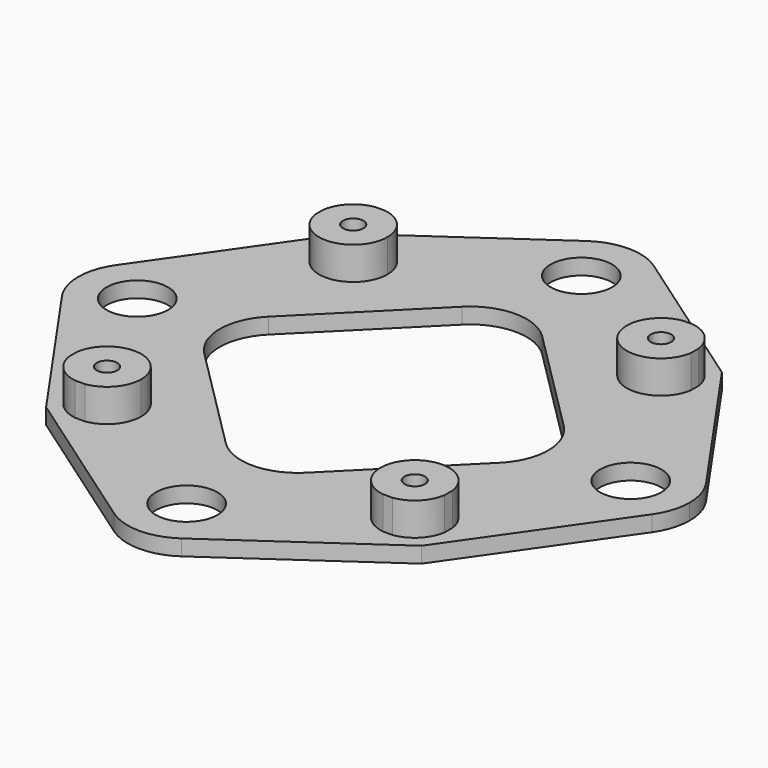
from build123d import *

# Parameters (mm, degrees)
F0_R     = 3
F0_R_2   = 1
F1_DEPTH = 1.54
F2_DEPTH = 3.2


with BuildPart() as f1:
    # F0 (on Top) → F1 (new body)
    with BuildSketch(Plane.XY):
        with BuildLine():
            Line((-2.26e-08, 18.3), (-14.5244322999, 18.3))
            ThreePointArc((-14.5244322999, 18.3), (-12.4799056806, 17.1829542503), (-11.6659087239, 15))
            ThreePointArc((-11.6659087239, 15), (-14.7616059709, 11.6744424642), (-18.3, 14.5244322999))
            Line((-18.3, 14.5244322999), (-18.3, 0))
            Line((-18.3, 0), (-18.3, -14.5244322999))
            ThreePointArc((-18.3, -14.5244322999), (-14.7616059709, -11.6744424642), (-11.6659087239, -15))
            ThreePointArc((-11.6659087239, -15), (-12.4799056806, -17.1829542503), (-14.5244322999, -18.3))
            Line((-14.5244322999, -18.3), (0, -18.3))
            Line((0, -18.3), (14.5244322999, -18.3))
            ThreePointArc((14.5244322999, -18.3), (12.6424414496, -12.6424414496), (18.3, -14.5244322999))
            Line((18.3, -14.5244322999), (18.3, -7.7e-09))
            Line((18.3, -7.7e-09), (18.3, 14.5244322999))
            ThreePointArc((18.3, 14.5244322999), (12.6424414496, 12.6424414496), (14.5244322999, 18.3))
            Line((14.5244322999, 18.3), (-2.26e-08, 18.3))
        make_face()
        with BuildLine():
            ThreePointArc((-14.4005392066, -3.8994607934), (-16.0157487532, 0), (-14.4005392066, 3.8994607934))
            Line((-14.4005392066, 3.8994607934), (-3.8994607934, 14.4005392066))
            ThreePointArc((-3.8994607934, 14.4005392066), (0, 16.0157487532), (3.8994607934, 14.4005392066))
            Line((3.8994607934, 14.4005392066), (14.4005392066, 3.8994607934))
            ThreePointArc((14.4005392066, 3.8994607934), (16.0157487532, 0), (14.4005392066, -3.8994607934))
            Line((14.4005392066, -3.8994607934), (3.8994607934, -14.4005392066))
            ThreePointArc((3.8994607934, -14.4005392066), (0, -16.0157487532), (-3.8994607934, -14.4005392066))
            Line((-3.8994607934, -14.4005392066), (-14.4005392066, -3.8994607934))
        make_face(mode=Mode.SUBTRACT)
        with BuildLine():
            Line((-3.2887057433, 28.766663496), (-18.3, 18.3))
            Line((-18.3, 18.3), (-15.4755677001, 18.3))
            ThreePointArc((-15.4755677001, 18.3), (-15, 18.3340912761), (-14.5244322999, 18.3))
            Line((-14.5244322999, 18.3), (-2.26e-08, 18.3))
            ThreePointArc((-2.26e-08, 18.3), (-5.4855863486, 22.3263868149), (-3.2887057433, 28.766663496))
        make_face()
        with BuildLine():
            Line((18.3, 18.3), (3.2887057433, 28.766663496))
            ThreePointArc((3.2887057433, 28.766663496), (5.0976738825, 26.7101167245), (5.75, 24.05))
            ThreePointArc((5.75, 24.05), (4.0658639838, 19.9841360002), (-2.26e-08, 18.3))
            Line((-2.26e-08, 18.3), (14.5244322999, 18.3))
            ThreePointArc((14.5244322999, 18.3), (15, 18.3340912761), (15.4755677001, 18.3))
            Line((15.4755677001, 18.3), (18.3, 18.3))
        make_face()
        with BuildLine():
            ThreePointArc((3.2887057433, 28.766663496), (0, 29.8), (-3.2887057433, 28.766663496))
            ThreePointArc((-3.2887057433, 28.766663496), (-5.4855863486, 22.3263868149), (-2.26e-08, 18.3))
            ThreePointArc((-2.26e-08, 18.3), (4.0658639838, 19.9841360002), (5.75, 24.05))
            ThreePointArc((5.75, 24.05), (5.0976738825, 26.7101167245), (3.2887057433, 28.766663496))
        make_face()
        with Locations((0, 24.05)):
            Circle(F0_R, mode=Mode.SUBTRACT)
        with BuildLine():
            Line((28.766663496, 3.2887057433), (18.3, 18.3))
            Line((18.3, 18.3), (18.3, 15.4755677001))
            ThreePointArc((18.3, 15.4755677001), (18.3255575358, 15.2383940291), (18.3340912761, 15))
            ThreePointArc((18.3340912761, 15), (18.3255575358, 14.7616059709), (18.3, 14.5244322999))
            Line((18.3, 14.5244322999), (18.3, -7.7e-09))
            ThreePointArc((18.3, -7.7e-09), (22.3263868004, 5.4855863441), (28.766663496, 3.2887057433))
        make_face()
        with BuildLine():
            ThreePointArc((28.766663496, -3.2887057433), (22.3263868078, -5.4855863464), (18.3, -7.7e-09))
            Line((18.3, -7.7e-09), (18.3, -14.5244322999))
            ThreePointArc((18.3, -14.5244322999), (18.3255575358, -14.7616059709), (18.3340912761, -15))
            ThreePointArc((18.3340912761, -15), (18.3255575358, -15.2383940291), (18.3, -15.4755677001))
            Line((18.3, -15.4755677001), (18.3, -18.3))
            Line((18.3, -18.3), (28.766663496, -3.2887057433))
        make_face()
        with BuildLine():
            ThreePointArc((29.8, 0), (29.5355863452, 1.7236131959), (28.766663496, 3.2887057433))
            ThreePointArc((28.766663496, 3.2887057433), (22.3263868004, 5.4855863441), (18.3, -7.7e-09))
            ThreePointArc((18.3, -7.7e-09), (22.3263868078, -5.4855863464), (28.766663496, -3.2887057433))
            ThreePointArc((28.766663496, -3.2887057433), (29.5355863452, -1.7236131959), (29.8, 0))
        make_face()
        with Locations((24.05, 0)):
            Circle(F0_R, mode=Mode.SUBTRACT)
        with BuildLine():
            ThreePointArc((18.3, -14.5244322999), (12.6424414496, -12.6424414496), (14.5244322999, -18.3))
            Line((14.5244322999, -18.3), (15.4755677001, -18.3))
            ThreePointArc((15.4755677001, -18.3), (17.3575585504, -17.3575585504), (18.3, -15.4755677001))
            Line((18.3, -15.4755677001), (18.3, -14.5244322999))
        make_face()
        with Locations((15, -15)):
            Circle(F0_R_2, mode=Mode.SUBTRACT)
        with BuildLine():
            Line((15.4755677001, 18.3), (14.5244322999, 18.3))
            ThreePointArc((14.5244322999, 18.3), (12.6424414496, 12.6424414496), (18.3, 14.5244322999))
            Line((18.3, 14.5244322999), (18.3, 15.4755677001))
            ThreePointArc((18.3, 15.4755677001), (17.3575585504, 17.3575585504), (15.4755677001, 18.3))
        make_face()
        with Locations((15, 15)):
            Circle(F0_R_2, mode=Mode.SUBTRACT)
        with Locations((15, 15)):
            Circle(F0_R_2)
        with BuildLine():
            Line((18.3, 15.4755677001), (18.3, 18.3))
            Line((18.3, 18.3), (15.4755677001, 18.3))
            ThreePointArc((15.4755677001, 18.3), (17.3575585504, 17.3575585504), (18.3, 15.4755677001))
        make_face()
        with BuildLine():
            Line((-15.4755677001, 18.3), (-18.3, 18.3))
            Line((-18.3, 18.3), (-18.3, 15.4755677001))
            ThreePointArc((-18.3, 15.4755677001), (-17.3575585504, 17.3575585504), (-15.4755677001, 18.3))
        make_face()
        with BuildLine():
            Line((-14.5244322999, 18.3), (-15.4755677001, 18.3))
            ThreePointArc((-15.4755677001, 18.3), (-17.3575585504, 17.3575585504), (-18.3, 15.4755677001))
            Line((-18.3, 15.4755677001), (-18.3, 14.5244322999))
            ThreePointArc((-18.3, 14.5244322999), (-14.7616059709, 11.6744424642), (-11.6659087239, 15))
            ThreePointArc((-11.6659087239, 15), (-12.4799056806, 17.1829542503), (-14.5244322999, 18.3))
        make_face()
        with Locations((-15, 15)):
            Circle(F0_R_2, mode=Mode.SUBTRACT)
        with Locations((-15, 15)):
            Circle(F0_R_2)
        with BuildLine():
            ThreePointArc((-18.3, 0), (-22.3263868041, 5.4855863452), (-28.766663496, 3.2887057433))
            ThreePointArc((-28.766663496, 3.2887057433), (-29.8, 0), (-28.766663496, -3.2887057433))
            ThreePointArc((-28.766663496, -3.2887057433), (-22.3263868041, -5.4855863452), (-18.3, 0))
        make_face()
        with Locations((-24.05, 0)):
            Circle(F0_R, mode=Mode.SUBTRACT)
        with BuildLine():
            Line((-18.3, 15.4755677001), (-18.3, 18.3))
            Line((-18.3, 18.3), (-28.766663496, 3.2887057433))
            ThreePointArc((-28.766663496, 3.2887057433), (-22.3263868041, 5.4855863452), (-18.3, 0))
            Line((-18.3, 0), (-18.3, 14.5244322999))
            ThreePointArc((-18.3, 14.5244322999), (-18.3340912761, 15), (-18.3, 15.4755677001))
        make_face()
        with BuildLine():
            Line((-18.3, -14.5244322999), (-18.3, 0))
            ThreePointArc((-18.3, 0), (-22.3263868041, -5.4855863452), (-28.766663496, -3.2887057433))
            Line((-28.766663496, -3.2887057433), (-18.3, -18.3))
            Line((-18.3, -18.3), (-18.3, -15.4755677001))
            ThreePointArc((-18.3, -15.4755677001), (-18.3340912761, -15), (-18.3, -14.5244322999))
        make_face()
        with BuildLine():
            ThreePointArc((-11.6659087239, -15), (-14.7616059709, -11.6744424642), (-18.3, -14.5244322999))
            Line((-18.3, -14.5244322999), (-18.3, -15.4755677001))
            ThreePointArc((-18.3, -15.4755677001), (-17.3575585504, -17.3575585504), (-15.4755677001, -18.3))
            Line((-15.4755677001, -18.3), (-14.5244322999, -18.3))
            ThreePointArc((-14.5244322999, -18.3), (-12.4799056806, -17.1829542503), (-11.6659087239, -15))
        make_face()
        with Locations((-15, -15)):
            Circle(F0_R_2, mode=Mode.SUBTRACT)
        with Locations((-15, -15)):
            Circle(F0_R_2)
        with BuildLine():
            Line((-18.3, -15.4755677001), (-18.3, -18.3))
            Line((-18.3, -18.3), (-15.4755677001, -18.3))
            ThreePointArc((-15.4755677001, -18.3), (-17.3575585504, -17.3575585504), (-18.3, -15.4755677001))
        make_face()
        with BuildLine():
            Line((-15.4755677001, -18.3), (-18.3, -18.3))
            Line((-18.3, -18.3), (-3.2887057433, -28.766663496))
            ThreePointArc((-3.2887057433, -28.766663496), (-5.4855863452, -22.3263868041), (0, -18.3))
            Line((0, -18.3), (-14.5244322999, -18.3))
            ThreePointArc((-14.5244322999, -18.3), (-15, -18.3340912761), (-15.4755677001, -18.3))
        make_face()
        with BuildLine():
            ThreePointArc((0, -18.3), (-5.4855863452, -22.3263868041), (-3.2887057433, -28.766663496))
            ThreePointArc((-3.2887057433, -28.766663496), (0, -29.8), (3.2887057433, -28.766663496))
            ThreePointArc((3.2887057433, -28.766663496), (5.0976738825, -26.7101167245), (5.75, -24.05))
            ThreePointArc((5.75, -24.05), (4.0658639918, -19.9841360082), (0, -18.3))
        make_face()
        with Locations((0, -24.05)):
            Circle(F0_R, mode=Mode.SUBTRACT)
        with BuildLine():
            ThreePointArc((5.75, -24.05), (5.0976738825, -26.7101167245), (3.2887057433, -28.766663496))
            Line((3.2887057433, -28.766663496), (18.3, -18.3))
            Line((18.3, -18.3), (15.4755677001, -18.3))
            ThreePointArc((15.4755677001, -18.3), (15, -18.3340912761), (14.5244322999, -18.3))
            Line((14.5244322999, -18.3), (0, -18.3))
            ThreePointArc((0, -18.3), (4.0658639918, -19.9841360082), (5.75, -24.05))
        make_face()
        with BuildLine():
            Line((15.4755677001, -18.3), (18.3, -18.3))
            Line((18.3, -18.3), (18.3, -15.4755677001))
            ThreePointArc((18.3, -15.4755677001), (17.3575585504, -17.3575585504), (15.4755677001, -18.3))
        make_face()
        with Locations((15, -15)):
            Circle(F0_R_2)
        with BuildLine():
            Line((-14.5244322999, -18.3), (-15.4755677001, -18.3))
            ThreePointArc((-15.4755677001, -18.3), (-15, -18.3340912761), (-14.5244322999, -18.3))
        make_face()
        with BuildLine():
            Line((-18.3, -15.4755677001), (-18.3, -14.5244322999))
            ThreePointArc((-18.3, -14.5244322999), (-18.3340912761, -15), (-18.3, -15.4755677001))
        make_face()
        with BuildLine():
            Line((-18.3, 14.5244322999), (-18.3, 15.4755677001))
            ThreePointArc((-18.3, 15.4755677001), (-18.3340912761, 15), (-18.3, 14.5244322999))
        make_face()
        with BuildLine():
            ThreePointArc((-14.5244322999, 18.3), (-15, 18.3340912761), (-15.4755677001, 18.3))
            Line((-15.4755677001, 18.3), (-14.5244322999, 18.3))
        make_face()
        with BuildLine():
            ThreePointArc((15.4755677001, 18.3), (15, 18.3340912761), (14.5244322999, 18.3))
            Line((14.5244322999, 18.3), (15.4755677001, 18.3))
        make_face()
        with BuildLine():
            ThreePointArc((18.3340912761, 15), (18.3255575358, 15.2383940291), (18.3, 15.4755677001))
            Line((18.3, 15.4755677001), (18.3, 14.5244322999))
            ThreePointArc((18.3, 14.5244322999), (18.3255575358, 14.7616059709), (18.3340912761, 15))
        make_face()
        with BuildLine():
            Line((15.4755677001, -18.3), (14.5244322999, -18.3))
            ThreePointArc((14.5244322999, -18.3), (15, -18.3340912761), (15.4755677001, -18.3))
        make_face()
        with BuildLine():
            ThreePointArc((18.3340912761, -15), (18.3255575358, -14.7616059709), (18.3, -14.5244322999))
            Line((18.3, -14.5244322999), (18.3, -15.4755677001))
            ThreePointArc((18.3, -15.4755677001), (18.3255575358, -15.2383940291), (18.3340912761, -15))
        make_face()
    extrude(amount=-F1_DEPTH)

    # F0 (on Top) → F2 (join)
    with BuildSketch(Plane.XY):
        with BuildLine():
            ThreePointArc((-11.6659087239, -15), (-14.7616059709, -11.6744424642), (-18.3, -14.5244322999))
            Line((-18.3, -14.5244322999), (-18.3, -15.4755677001))
            ThreePointArc((-18.3, -15.4755677001), (-17.3575585504, -17.3575585504), (-15.4755677001, -18.3))
            Line((-15.4755677001, -18.3), (-14.5244322999, -18.3))
            ThreePointArc((-14.5244322999, -18.3), (-12.4799056806, -17.1829542503), (-11.6659087239, -15))
        make_face()
        with Locations((-15, -15)):
            Circle(F0_R_2, mode=Mode.SUBTRACT)
        with BuildLine():
            Line((-14.5244322999, 18.3), (-15.4755677001, 18.3))
            ThreePointArc((-15.4755677001, 18.3), (-17.3575585504, 17.3575585504), (-18.3, 15.4755677001))
            Line((-18.3, 15.4755677001), (-18.3, 14.5244322999))
            ThreePointArc((-18.3, 14.5244322999), (-14.7616059709, 11.6744424642), (-11.6659087239, 15))
            ThreePointArc((-11.6659087239, 15), (-12.4799056806, 17.1829542503), (-14.5244322999, 18.3))
        make_face()
        with Locations((-15, 15)):
            Circle(F0_R_2, mode=Mode.SUBTRACT)
        with BuildLine():
            ThreePointArc((18.3, -14.5244322999), (12.6424414496, -12.6424414496), (14.5244322999, -18.3))
            Line((14.5244322999, -18.3), (15.4755677001, -18.3))
            ThreePointArc((15.4755677001, -18.3), (17.3575585504, -17.3575585504), (18.3, -15.4755677001))
            Line((18.3, -15.4755677001), (18.3, -14.5244322999))
        make_face()
        with Locations((15, -15)):
            Circle(F0_R_2, mode=Mode.SUBTRACT)
        with BuildLine():
            Line((15.4755677001, 18.3), (14.5244322999, 18.3))
            ThreePointArc((14.5244322999, 18.3), (12.6424414496, 12.6424414496), (18.3, 14.5244322999))
            Line((18.3, 14.5244322999), (18.3, 15.4755677001))
            ThreePointArc((18.3, 15.4755677001), (17.3575585504, 17.3575585504), (15.4755677001, 18.3))
        make_face()
        with Locations((15, 15)):
            Circle(F0_R_2, mode=Mode.SUBTRACT)
    extrude(amount=F2_DEPTH)


solid = f1.part
